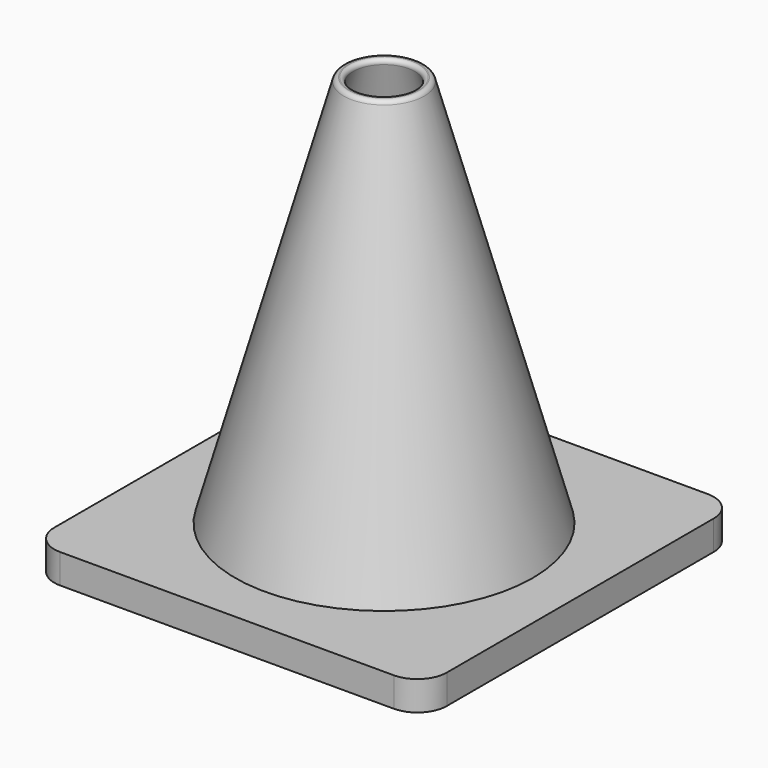
from build123d import *

# Parameters (mm, degrees)
FILLET001_R = 0.4
FILLET002_R = 0.5
BOX_W       = 40
BOX_H       = 40
BOX_DEPTH   = 3
FILLET_R    = 3


with BuildPart() as cono_interior:
    # Cone001 → Cone001 (revolve)
    with BuildSketch(Plane(origin=(20, 20, 0), x_dir=(1, 0, 0), z_dir=(0, -1, 0))):
        Polygon((0, 0), (15, 0), (3, 43), (0, 43), align=None)
    revolve(axis=Axis((20, 20, 0), (0, 0, 1)))


with BuildPart() as obj1:
    # Cone → Cone (revolve)
    with BuildSketch(Plane(origin=(20, 20, 0), x_dir=(1, 0, 0), z_dir=(0, -1, 0))):
        Polygon((0, 0), (16, 0), (4, 43), (0, 43), align=None)
    revolve(axis=Axis((20, 20, 0), (0, 0, 1)))

    # Cut: cut cono_interior
    add(cono_interior.part, mode=Mode.SUBTRACT)

    # Fillet001
    fillet001_edges = [obj1.edges().sort_by_distance(p)[0] for p in [
        (17, 20, 43),
    ]]
    fillet(fillet001_edges, radius=FILLET001_R)

    # Fillet002
    fillet002_edges = [obj1.edges().sort_by_distance(p)[0] for p in [
        (16, 20, 43),
    ]]
    fillet(fillet002_edges, radius=FILLET002_R)


with BuildPart() as cono_final:
    # Box → Box (new body)
    with BuildSketch(Plane.XY):
        with Locations((20, 20)):
            Rectangle(BOX_W, BOX_H)
    extrude(amount=BOX_DEPTH)

    # Fillet
    fillet_edges = [cono_final.edges().sort_by_distance(p)[0] for p in [
        (0, 0, 1.5),
        (0, 40, 1.5),
        (40, 0, 1.5),
        (40, 40, 1.5),
    ]]
    fillet(fillet_edges, radius=FILLET_R)

    # Cut001: cut cono_interior
    add(cono_interior.part, mode=Mode.SUBTRACT)

    # Fusion: union obj1
    add(obj1.part)


solid = cono_final.part
